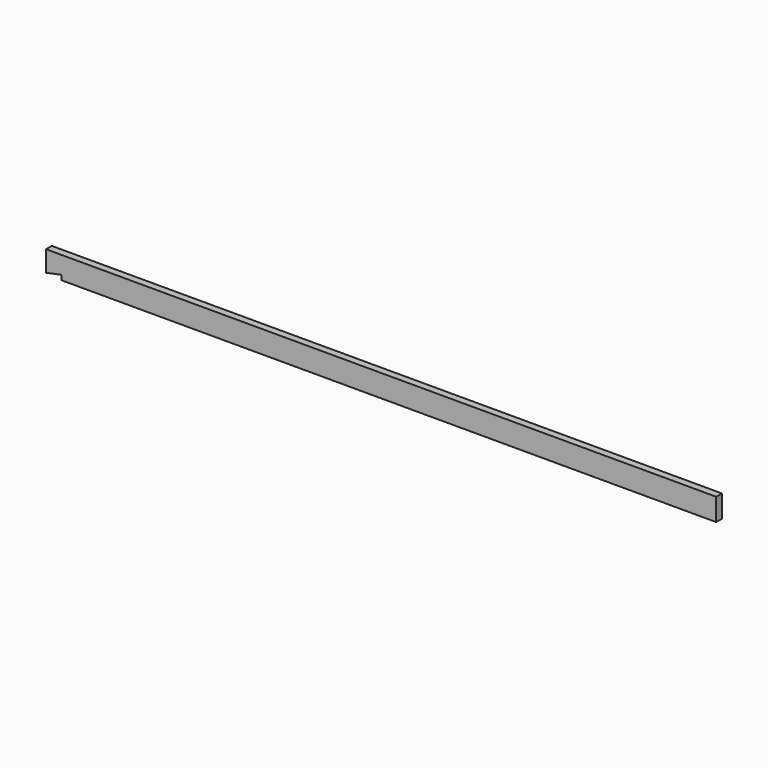
from build123d import *

# Parameters (mm, degrees)
F0_W     = 45
F0_H     = 140
F1_DEPTH = 2100
F3_DEPTH = 45


with BuildPart() as f1:
    # F0 (on Right) → F1 (new body, symmetric)
    with BuildSketch(Plane.YZ):
        Rectangle(F0_W, F0_H)
    extrude(amount=F1_DEPTH, both=True)

    # F2 (on face) → F3 (cut, through all)
    with BuildSketch(Plane.XZ.offset(22.5)):
        Polygon((-2003, -40), (-2100, -60), (-2100, -70), (-2003, -70), align=None)
    extrude(amount=-F3_DEPTH, mode=Mode.SUBTRACT)


solid = f1.part
